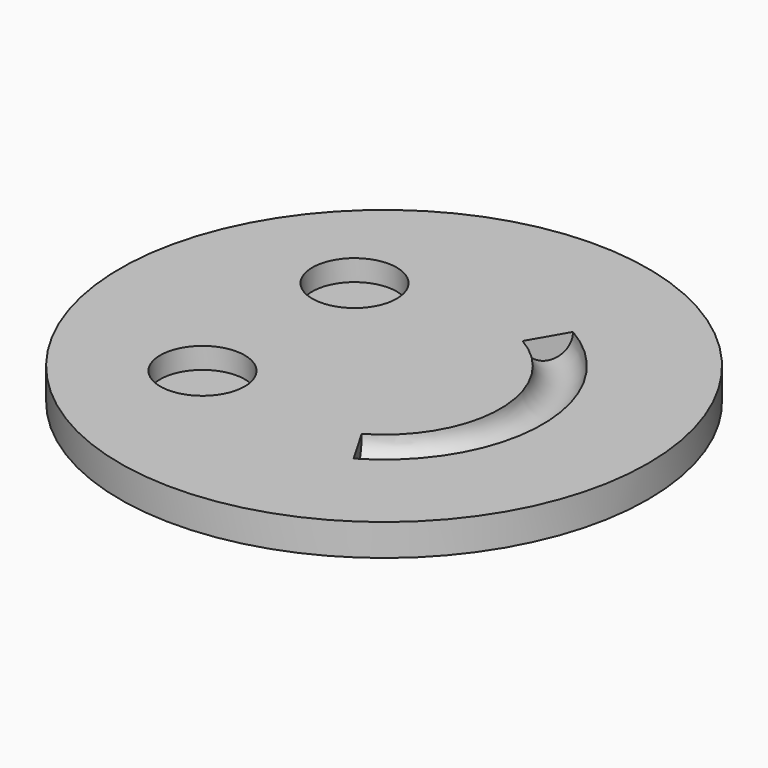
from build123d import *

# Parameters (mm, degrees)
CYLINDER002_R         = 4
CYLINDER002_DEPTH     = 3
CYLINDER001_R         = 4
CYLINDER001_DEPTH     = 3
TORUS_R               = 2
TORUS_ANGLE           = 120
TORUS_PLACEMENT_ANGLE = 60
CYLINDER_R            = 25
CYLINDER_DEPTH        = 3


with BuildPart() as cilindre002:
    # Cylinder002 → Cylinder002 (new body)
    with BuildSketch(Plane(origin=(-10, -9, 1), x_dir=(1, 0, 0), z_dir=(0, 0, 1))):
        Circle(CYLINDER002_R)
    extrude(amount=CYLINDER002_DEPTH)


with BuildPart() as fusion:
    # Cylinder001 → Cylinder001 (new body)
    with BuildSketch(Plane(origin=(-10, 9, 1), x_dir=(1, 0, 0), z_dir=(0, 0, 1))):
        Circle(CYLINDER001_R)
    extrude(amount=CYLINDER001_DEPTH)

    # Fusion: union Cilindre002
    add(cilindre002.part)


with BuildPart() as torus:
    # Torus → Torus (revolve)
    with BuildSketch(Plane.XZ):
        with Locations((13, 0)):
            Circle(TORUS_R)
    revolve(axis=Axis((0, 0, 0), (0, 0, 1)), revolution_arc=TORUS_ANGLE)


with BuildPart() as torus_1:
    # Torus placement: moved
    add(torus.part.moved(Location((0, 0, 3))).rotate(Axis((0, 0, 3), (0, 0, -1)), TORUS_PLACEMENT_ANGLE))


with BuildPart() as cut001:
    # Cylinder → Cylinder (new body)
    with BuildSketch(Plane.XY):
        Circle(CYLINDER_R)
    extrude(amount=CYLINDER_DEPTH)

    # Cut: cut Torus
    add(torus_1.part, mode=Mode.SUBTRACT)

    # Cut001: cut Fusion
    add(fusion.part, mode=Mode.SUBTRACT)


solid = cut001.part
